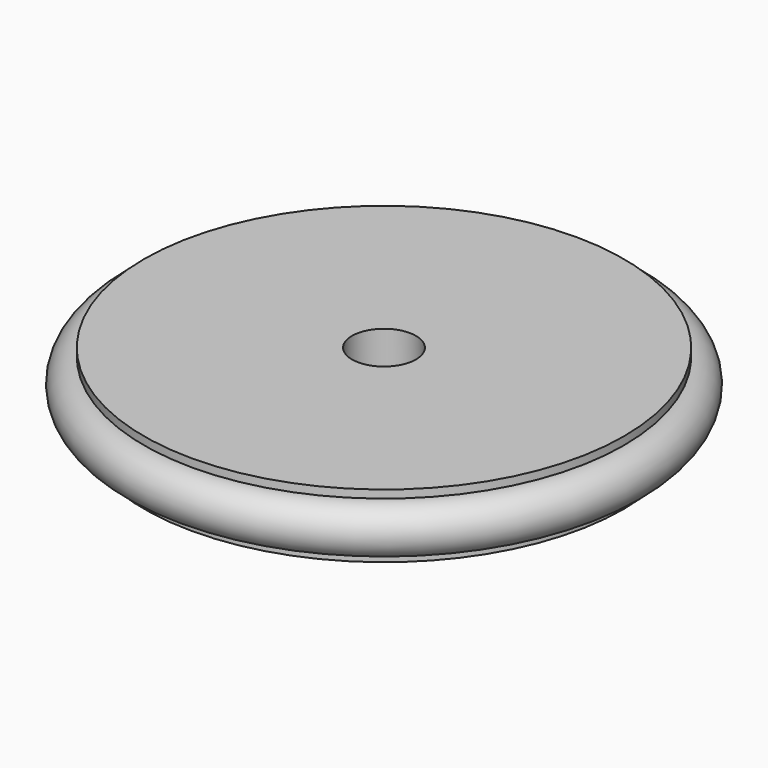
from build123d import *

# Parameters (mm, degrees)
F0_R     = 15
F1_DEPTH = 4
F2_R     = 1.5
F5_D     = 4


with BuildPart() as f1:
    # F0 (on Top) → F1 (new body)
    with BuildSketch(Plane.XY):
        Circle(F0_R)
    extrude(amount=F1_DEPTH)

    # F2 (on Right) → F3 (revolve, cut)
    with BuildSketch(Plane.YZ):
        with Locations((-15, 2)):
            Circle(F2_R)
    revolve(axis=Axis((0, 0, 6.309232), (0, 0, 1)), mode=Mode.SUBTRACT)

    # F5 (through all)
    with Locations(Plane.XY.offset(4)):
        with Locations((0, 0)):
            Hole(F5_D / 2)


with BuildPart() as f6:
    # F2 (on Right) → F6 (revolve)
    with BuildSketch(Plane.YZ):
        with Locations((-15, 2)):
            Circle(F2_R)
    revolve(axis=Axis((0, 0, 6.309232), (0, 0, 1)))


solid = Compound([f1.part, f6.part])
